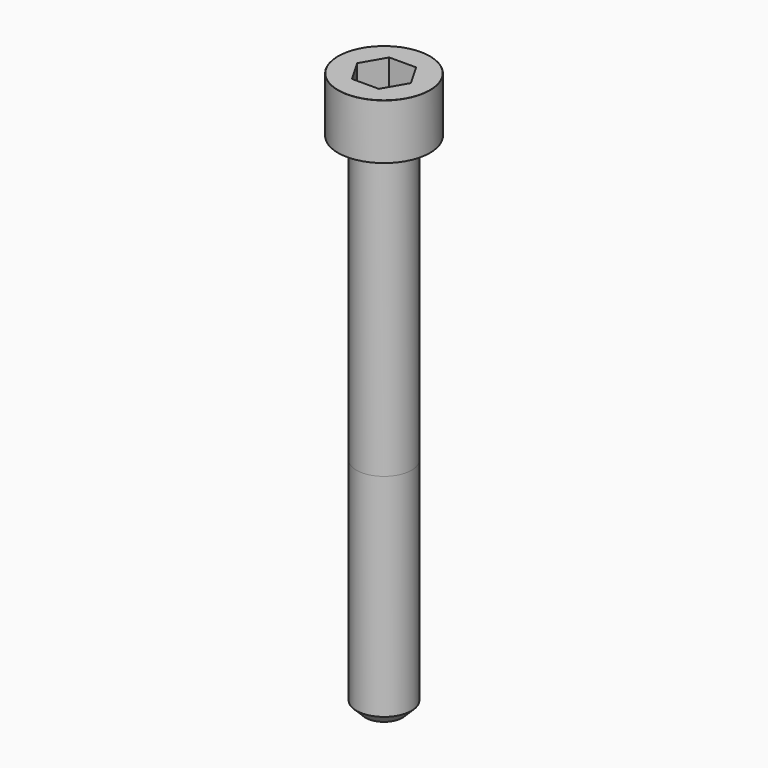
from build123d import *

# Parameters (mm, degrees)
POCKET_DEPTH = 5.06


with BuildPart() as part:
    # Sketch → Revolve (revolve)
    with BuildSketch(Plane.YZ):
        with BuildLine():
            Line((2.999, 0), (5, 0))
            Line((5, 0), (5, 5.97229))
            ThreePointArc((5, 5.97229), (4.991884, 5.991884), (4.97229, 6))
            Line((4.97229, 6), (0, 6))
            Line((0, -55), (0, 6))
            Line((2, -55), (0, -55))
            Line((3, -54), (2, -55))
            Line((3, -31), (3, -54))
            Line((2.999, 0), (3, -31))
        make_face()
    revolve(axis=Axis((0, 0, 0), (0, 0, 1)))

    # Sketch001 → Pocket (cut)
    with BuildSketch(Plane.XY.offset(6)):
        Polygon((2.921392, 0), (1.460696, 2.53), (-1.460696, 2.53), (-2.921392, 0), (-1.460696, -2.53), (1.460696, -2.53), align=None)
    extrude(amount=-POCKET_DEPTH, mode=Mode.SUBTRACT)


solid = part.part
